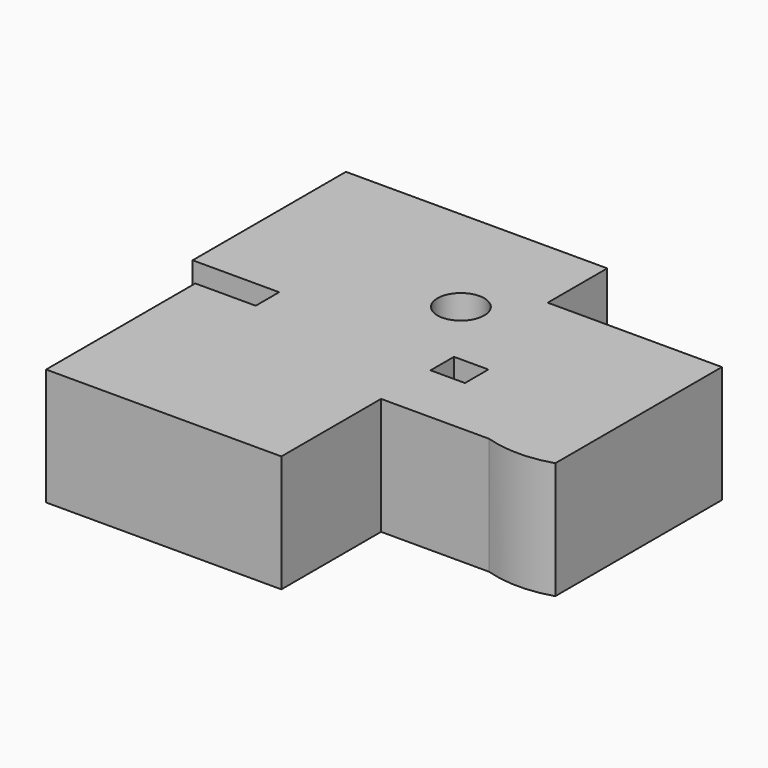
from build123d import *

# Parameters (mm, degrees)
F0_W     = 37.936644163
F0_H     = 25.4256250337
F0_R     = 5.0710694704
F0_H_2   = 6.3564060256
F0_H_3   = 13.4190795943
F1_DEPTH = 25.4
F2_DEPTH = 25.4


with BuildPart() as f1:
    # F0 (on Top) → F1 (new body)
    with BuildSketch(Plane.XY):
        Polygon((-7.4662552215, 47.9252822697), (-64.1694366932, 47.9252822697), (-64.1694366932, 6.3564060256), (-45.4028993845, 6.3564060256), (-45.4028993845, 31.7820310593), (-7.4662552215, 31.7820310593), align=None)
        with BuildLine():
            Line((15.0090710029, 31.7820310593), (-7.4662552215, 31.7820310593))
            Line((-7.4662552215, 31.7820310593), (-7.4662552215, 6.3564060256))
            Line((-7.4662552215, 6.3564060256), (-0.5410785656, 6.3564060256))
            ThreePointArc((-0.5410785656, 6.3564060256), (2.7780197693, 21.7944652245), (15.0090710029, 31.7820310593))
        make_face()
        with Locations((-26.434577303, 19.0692185424)):
            Rectangle(F0_W, F0_H)
        with Locations((-18.0028378963, 21.4026346803)):
            Circle(F0_R, mode=Mode.SUBTRACT)
        with Locations((-26.434577303, 3.1782030128)):
            Rectangle(F0_W, F0_H_2)
        with BuildLine():
            Line((30.3325485438, 31.7820310593), (15.0090710029, 31.7820310593))
            ThreePointArc((15.0090710029, 31.7820310593), (2.7780197693, 21.7944652245), (-0.5410785656, 6.3564060256))
            Line((-0.5410785656, 6.3564060256), (0, 6.3564060256))
            Line((0, 6.3564060256), (0, 3.4891846957))
            ThreePointArc((0, 3.4891846957), (5.7772927996, -7.0374210767), (15.9488696559, -13.4190795943))
            Line((15.9488696559, -13.4190795943), (30.3325485438, -13.4190795943))
            Line((30.3325485438, -13.4190795943), (30.3325485438, 31.7820310593))
        make_face()
        Polygon((-45.4028993845, -13.4190795943), (-45.4028993845, 0), (-58.5192963481, 0), (-58.5192963481, -40.4590293765), (-7.4662552215, -40.4590293765), (-7.4662552215, -13.4190795943), align=None)
        with Locations((-26.434577303, -6.7095397972)):
            Rectangle(F0_W, F0_H_3)
        with BuildLine():
            Line((0, 0), (-7.4662552215, 0))
            Line((-7.4662552215, 0), (-7.4662552215, -13.4190795943))
            Line((-7.4662552215, -13.4190795943), (15.9488696559, -13.4190795943))
            ThreePointArc((15.9488696559, -13.4190795943), (5.7772927996, -7.0374210767), (0, 3.4891846957))
            Line((0, 3.4891846957), (0, 0))
        make_face()
        with BuildLine():
            ThreePointArc((15.9488696559, -13.4190795943), (23.1407090998, -14.5283166529), (30.3325485438, -13.4190795943))
            Line((30.3325485438, -13.4190795943), (15.9488696559, -13.4190795943))
        make_face()
    extrude(amount=F1_DEPTH)

    # F0 (on Top) → F2 (join)
    with BuildSketch(Plane.XY):
        Polygon((-7.4662552215, 47.9252822697), (-64.1694366932, 47.9252822697), (-64.1694366932, 6.3564060256), (-45.4028993845, 6.3564060256), (-45.4028993845, 31.7820310593), (-7.4662552215, 31.7820310593), align=None)
        with BuildLine():
            Line((15.0090710029, 31.7820310593), (-7.4662552215, 31.7820310593))
            Line((-7.4662552215, 31.7820310593), (-7.4662552215, 6.3564060256))
            Line((-7.4662552215, 6.3564060256), (-0.5410785656, 6.3564060256))
            ThreePointArc((-0.5410785656, 6.3564060256), (2.7780197693, 21.7944652245), (15.0090710029, 31.7820310593))
        make_face()
        with Locations((-26.434577303, 19.0692185424)):
            Rectangle(F0_W, F0_H)
        with Locations((-18.0028378963, 21.4026346803)):
            Circle(F0_R, mode=Mode.SUBTRACT)
        with Locations((-26.434577303, 3.1782030128)):
            Rectangle(F0_W, F0_H_2)
        with BuildLine():
            Line((30.3325485438, 31.7820310593), (15.0090710029, 31.7820310593))
            ThreePointArc((15.0090710029, 31.7820310593), (2.7780197693, 21.7944652245), (-0.5410785656, 6.3564060256))
            Line((-0.5410785656, 6.3564060256), (0, 6.3564060256))
            Line((0, 6.3564060256), (0, 3.4891846957))
            ThreePointArc((0, 3.4891846957), (5.7772927996, -7.0374210767), (15.9488696559, -13.4190795943))
            Line((15.9488696559, -13.4190795943), (30.3325485438, -13.4190795943))
            Line((30.3325485438, -13.4190795943), (30.3325485438, 31.7820310593))
        make_face()
        Polygon((-45.4028993845, -13.4190795943), (-45.4028993845, 0), (-58.5192963481, 0), (-58.5192963481, -40.4590293765), (-7.4662552215, -40.4590293765), (-7.4662552215, -13.4190795943), align=None)
        with Locations((-26.434577303, -6.7095397972)):
            Rectangle(F0_W, F0_H_3)
        with BuildLine():
            Line((0, 0), (-7.4662552215, 0))
            Line((-7.4662552215, 0), (-7.4662552215, -13.4190795943))
            Line((-7.4662552215, -13.4190795943), (15.9488696559, -13.4190795943))
            ThreePointArc((15.9488696559, -13.4190795943), (5.7772927996, -7.0374210767), (0, 3.4891846957))
            Line((0, 3.4891846957), (0, 0))
        make_face()
        with BuildLine():
            ThreePointArc((15.9488696559, -13.4190795943), (23.1407090998, -14.5283166529), (30.3325485438, -13.4190795943))
            Line((30.3325485438, -13.4190795943), (15.9488696559, -13.4190795943))
        make_face()
    extrude(amount=F2_DEPTH)


solid = f1.part
